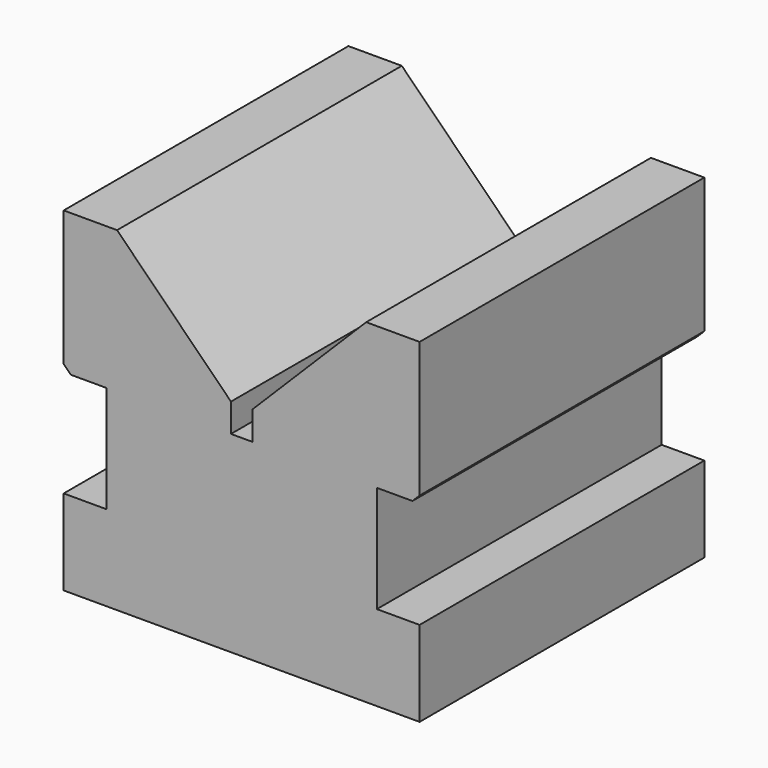
from build123d import *

# Parameters (mm, degrees)
F1_DEPTH = 25
F2_SIZE2 = 1
F2_SIZE  = 1


with BuildPart() as f1:
    # F0 (on Front) → F1 (new body, symmetric)
    with BuildSketch(Plane.XZ):
        Polygon((-25, -15), (-25, -27), (25, -27), (25, -15), (19, -15), (19, 0), (25, 0), (25, 20), (17.5, 20), (1.5, 4), (1.5, 0), (-1.5, 0), (-1.5, 4), (-17.5, 20), (-25, 20), (-25, 0), (-19, 0), (-19, -15), align=None)
    extrude(amount=F1_DEPTH, both=True)

    # F2
    f2_edges = [f1.edges().sort_by_distance(p)[0] for p in [
        (25, 0, 0),
        (-25, 0, 0),
    ]]
    chamfer(f2_edges, length=F2_SIZE, length2=F2_SIZE2)


solid = f1.part
